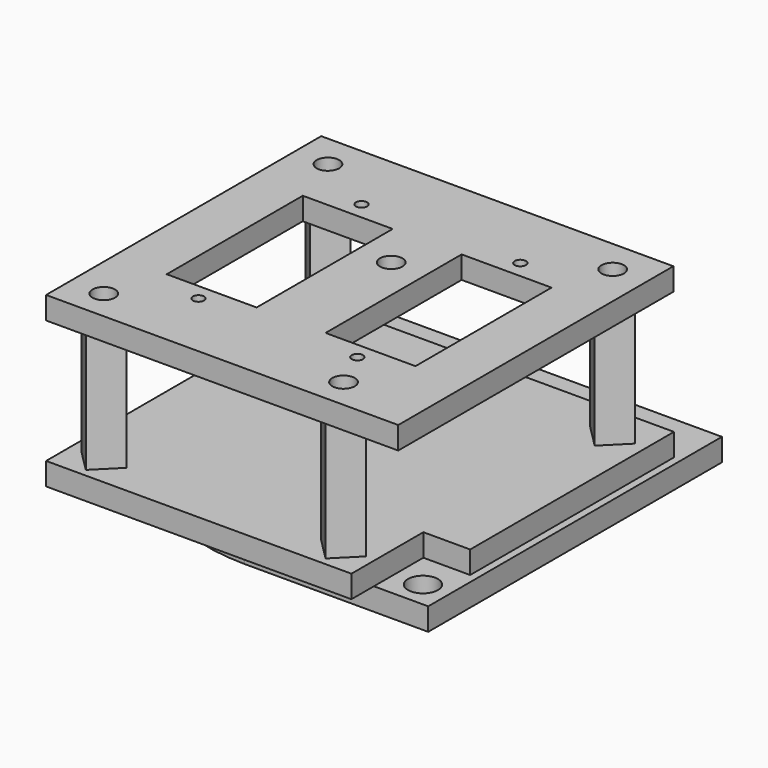
from build123d import *

# Parameters (mm, degrees)
CYLINDER003_R     = 1.5
CYLINDER003_DEPTH = 10
CYLINDER002_R     = 2
CYLINDER002_DEPTH = 10
CYLINDER001_R     = 2
CYLINDER001_DEPTH = 10
CYLINDER_R        = 24.5
CYLINDER_DEPTH    = 3
BOX001_W          = 24.5
BOX001_H          = 24.5
BOX001_DEPTH      = 3
BOX_W             = 49
BOX_H             = 49
BOX_DEPTH         = 3
CYLINDER013_R     = 1.5
CYLINDER013_DEPTH = 10
CYLINDER012_R     = 1.5
CYLINDER012_DEPTH = 10
CYLINDER008_R     = 0.75
CYLINDER008_DEPTH = 10
ARRAY006_X_COUNT  = 2
ARRAY006_X_PITCH  = 21.2
ARRAY006_Y_COUNT  = 2
ARRAY006_Y_PITCH  = 27.2
BOX004_W          = 12
BOX004_H          = 22.7
BOX004_DEPTH      = 10
ARRAY004_X_COUNT  = 2
ARRAY004_X_PITCH  = 21.2
CYLINDER006_R     = 1.5
CYLINDER006_DEPTH = 10
ARRAY005_Y_COUNT  = 2
ARRAY005_Y_PITCH  = 37.4
CYLINDER007_R     = 1.5
CYLINDER007_DEPTH = 10
BOX003_W          = 47
BOX003_H          = 45.9
BOX003_DEPTH      = 3
BOX006_W          = 7.25
BOX006_H          = 8.25
BOX006_DEPTH      = 3
CYLINDER011_R     = 1.5
CYLINDER011_DEPTH = 27
PRISM002_DEPTH    = 20
CYLINDER010_R     = 1.5
CYLINDER010_DEPTH = 27
BOX005_W          = 10
BOX005_H          = 11
BOX005_DEPTH      = 3
CYLINDER009_R     = 1.5
CYLINDER009_DEPTH = 27
PRISM001_DEPTH    = 20
CYLINDER005_R     = 1.5
CYLINDER005_DEPTH = 27
ARRAY002_Y_COUNT  = 2
ARRAY002_Y_PITCH  = 37.4
CYLINDER004_R     = 2.5
CYLINDER004_DEPTH = 10
PRISM_DEPTH       = 20
ARRAY003_Y_COUNT  = 2
ARRAY003_Y_PITCH  = 37.4
BOX002_W          = 47
BOX002_H          = 46
BOX002_DEPTH      = 3


with BuildPart() as cylinder003:
    # Cylinder003 → Cylinder003 (new body)
    with BuildSketch(Plane(origin=(24.5, 24.5, 0), x_dir=(1, 0, 0), z_dir=(0, 0, 1))):
        Circle(CYLINDER003_R)
    extrude(amount=CYLINDER003_DEPTH)


with BuildPart() as cylinder002:
    # Cylinder002 → Cylinder002 (new body)
    with BuildSketch(Plane(origin=(45.5, 3.5, 0), x_dir=(1, 0, 0), z_dir=(0, 0, 1))):
        Circle(CYLINDER002_R)
    extrude(amount=CYLINDER002_DEPTH)


with BuildPart() as cylinder001:
    # Cylinder001 → Cylinder001 (new body)
    with BuildSketch(Plane(origin=(3.5, 45.5, 0), x_dir=(1, 0, 0), z_dir=(0, 0, 1))):
        Circle(CYLINDER001_R)
    extrude(amount=CYLINDER001_DEPTH)


with BuildPart() as cilindro:
    # Cylinder → Cylinder (new body)
    with BuildSketch(Plane(origin=(24.5, 24.5, 0), x_dir=(1, 0, 0), z_dir=(0, 0, 1))):
        Circle(CYLINDER_R)
    extrude(amount=CYLINDER_DEPTH)


with BuildPart() as obj1:
    # Box001 → Box001 (new body)
    with BuildSketch(Plane.XY):
        with Locations((12.25, 12.25)):
            Rectangle(BOX001_W, BOX001_H)
    extrude(amount=BOX001_DEPTH)


with BuildPart() as temp_plate_final:
    # Box → Box (new body)
    with BuildSketch(Plane.XY):
        with Locations((24.5, 24.5)):
            Rectangle(BOX_W, BOX_H)
    extrude(amount=BOX_DEPTH)

    # Cut: cut obj1
    add(obj1.part, mode=Mode.SUBTRACT)

    # Fusion: union Cilindro
    add(cilindro.part)

    # Cut001: cut Cylinder001
    add(cylinder001.part, mode=Mode.SUBTRACT)

    # Cut002: cut Cylinder002
    add(cylinder002.part, mode=Mode.SUBTRACT)

    # Cut003: cut Cylinder003
    add(cylinder003.part, mode=Mode.SUBTRACT)


with BuildPart() as cylinder013:
    # Cylinder013 → Cylinder013 (new body)
    with BuildSketch(Plane(origin=(39.75, 2.5, 18.5), x_dir=(1, 0, 0), z_dir=(0, 0, 1))):
        Circle(CYLINDER013_R)
    extrude(amount=CYLINDER013_DEPTH)


with BuildPart() as cylinder012:
    # Cylinder012 → Cylinder012 (new body)
    with BuildSketch(Plane(origin=(45.75, 39.9, 19.5), x_dir=(1, 0, 0), z_dir=(0, 0, 1))):
        Circle(CYLINDER012_R)
    extrude(amount=CYLINDER012_DEPTH)


with BuildPart() as array006:
    # Cylinder008 → Cylinder008 (new body)
    with BuildSketch(Plane(origin=(16.15, 7.8, 19.5), x_dir=(1, 0, 0), z_dir=(0, 0, 1))):
        Circle(CYLINDER008_R)
    extrude(amount=CYLINDER008_DEPTH)

    # Array006 X: Array006 ×2


with BuildPart() as array006_1:
    add(array006.part)
    with Locations(*[(i * ARRAY006_X_PITCH, 0, 0) for i in range(1, ARRAY006_X_COUNT)]):
        add(array006.part)

    # Array006 Y: Array006 ×2


with BuildPart() as array006_2:
    add(array006_1.part)
    with Locations(*[(0, i * ARRAY006_Y_PITCH, 0) for i in range(1, ARRAY006_Y_COUNT)]):
        add(array006_1.part)


with BuildPart() as array_taladro_servomotor:
    # Box004 → Box004 (new body)
    with BuildSketch(Plane(origin=(10.15, 10, 19.5), x_dir=(1, 0, 0), z_dir=(0, 0, 1))):
        with Locations((6, 11.35)):
            Rectangle(BOX004_W, BOX004_H)
    extrude(amount=BOX004_DEPTH)

    # Array004 X: Array taladro servomotor ×2


with BuildPart() as array_taladro_servomotor_1:
    add(array_taladro_servomotor.part)
    with Locations(*[(i * ARRAY004_X_PITCH, 0, 0) for i in range(1, ARRAY004_X_COUNT)]):
        add(array_taladro_servomotor.part)


with BuildPart() as array005:
    # Cylinder006 → Cylinder006 (new body)
    with BuildSketch(Plane(origin=(7.75, 2.5, 19.5), x_dir=(1, 0, 0), z_dir=(0, 0, 1))):
        Circle(CYLINDER006_R)
    extrude(amount=CYLINDER006_DEPTH)

    # Array005 Y: Array005 ×2


with BuildPart() as array005_1:
    add(array005.part)
    with Locations(*[(0, i * ARRAY005_Y_PITCH, 0) for i in range(1, ARRAY005_Y_COUNT)]):
        add(array005.part)


with BuildPart() as fusion003:
    # Cylinder007 → Cylinder007 (new body)
    with BuildSketch(Plane(origin=(26.75, 26.7, 19.5), x_dir=(1, 0, 0), z_dir=(0, 0, 1))):
        Circle(CYLINDER007_R)
    extrude(amount=CYLINDER007_DEPTH)

    # Fusion003: union Array006, Array taladro servomotor, Array005
    add(array006_2.part)
    add(array_taladro_servomotor_1.part)
    add(array005_1.part)


with BuildPart() as base_final:
    # Box003 → Box003 (new body)
    with BuildSketch(Plane(origin=(3.25, -1.5, 22.5), x_dir=(1, 0, 0), z_dir=(0, 0, 1))):
        with Locations((23.5, 22.95)):
            Rectangle(BOX003_W, BOX003_H)
    extrude(amount=BOX003_DEPTH)

    # Cut005: cut Fusion003
    add(fusion003.part, mode=Mode.SUBTRACT)

    # Cut010: cut Cylinder012
    add(cylinder012.part, mode=Mode.SUBTRACT)

    # Cut011: cut Cylinder013
    add(cylinder013.part, mode=Mode.SUBTRACT)


with BuildPart() as base_final_1:
    # Cut011 placement: moved
    add(base_final.part.moved(Location((-2.25, -2.25, 0))))


with BuildPart() as obj2:
    # Box006 → Box006 (new body)
    with BuildSketch(Plane(origin=(41.75, 0, 3), x_dir=(1, 0, 0), z_dir=(0, 0, 1))):
        with Locations((3.625, 4.125)):
            Rectangle(BOX006_W, BOX006_H)
    extrude(amount=BOX006_DEPTH)


with BuildPart() as cylinder011:
    # Cylinder011 → Cylinder011 (new body)
    with BuildSketch(Plane(origin=(39.75, 2.5, 0), x_dir=(1, 0, 0), z_dir=(0, 0, 1))):
        Circle(CYLINDER011_R)
    extrude(amount=CYLINDER011_DEPTH)


with BuildPart() as cut009:
    # Prism002 → Prism002 (new body)
    with BuildSketch(Plane(origin=(39.75, 2.5, 3), x_dir=(1, 0, 0), z_dir=(0, 0, 1))):
        Polygon((3, 0), (0, 3), (-3, 0), (0, -3), align=None)
    extrude(amount=PRISM002_DEPTH)

    # Cut009: cut Cylinder011
    add(cylinder011.part, mode=Mode.SUBTRACT)


with BuildPart() as cylinder010:
    # Cylinder010 → Cylinder010 (new body)
    with BuildSketch(Plane(origin=(39.75, 2.5, 0), x_dir=(1, 0, 0), z_dir=(0, 0, 1))):
        Circle(CYLINDER010_R)
    extrude(amount=CYLINDER010_DEPTH)


with BuildPart() as obj1_placa:
    # Box005 → Box005 (new body)
    with BuildSketch(Plane(origin=(44, -2, 3), x_dir=(1, 0, 0), z_dir=(0, 0, 1))):
        with Locations((5, 5.5)):
            Rectangle(BOX005_W, BOX005_H)
    extrude(amount=BOX005_DEPTH)


with BuildPart() as cylinder009:
    # Cylinder009 → Cylinder009 (new body)
    with BuildSketch(Plane(origin=(45.75, 39.9, 0), x_dir=(1, 0, 0), z_dir=(0, 0, 1))):
        Circle(CYLINDER009_R)
    extrude(amount=CYLINDER009_DEPTH)


with BuildPart() as prism001:
    # Prism001 → Prism001 (new body)
    with BuildSketch(Plane(origin=(45.75, 39.9, 3), x_dir=(1, 0, 0), z_dir=(0, 0, 1))):
        Polygon((3, 0), (0, 3), (-3, 0), (0, -3), align=None)
    extrude(amount=PRISM001_DEPTH)


with BuildPart() as array002:
    # Cylinder005 → Cylinder005 (new body)
    with BuildSketch(Plane(origin=(7.75, 2.5, 0), x_dir=(1, 0, 0), z_dir=(0, 0, 1))):
        Circle(CYLINDER005_R)
    extrude(amount=CYLINDER005_DEPTH)

    # Array002 Y: Array002 ×2


with BuildPart() as array002_1:
    add(array002.part)
    with Locations(*[(0, i * ARRAY002_Y_PITCH, 0) for i in range(1, ARRAY002_Y_COUNT)]):
        add(array002.part)


with BuildPart() as fusion002:
    # Cylinder004 → Cylinder004 (new body)
    with BuildSketch(Plane(origin=(26.75, 26.75, 0), x_dir=(1, 0, 0), z_dir=(0, 0, 1))):
        Circle(CYLINDER004_R)
    extrude(amount=CYLINDER004_DEPTH)

    # Fusion002: union Array002
    add(array002_1.part)


with BuildPart() as obj3:
    # Prism → Prism (new body)
    with BuildSketch(Plane(origin=(7.75, 2.5, 3), x_dir=(1, 0, 0), z_dir=(0, 0, 1))):
        Polygon((3, 0), (0, 3), (-3, 0), (0, -3), align=None)
    extrude(amount=PRISM_DEPTH)

    # Array003 Y: obj3 ×2


with BuildPart() as obj3_1:
    add(obj3.part)
    with Locations(*[(0, i * ARRAY003_Y_PITCH, 0) for i in range(1, ARRAY003_Y_COUNT)]):
        add(obj3.part)


with BuildPart() as cut012:
    # Box002 → Box002 (new body)
    with BuildSketch(Plane(origin=(3.25, -1.5, 3), x_dir=(1, 0, 0), z_dir=(0, 0, 1))):
        with Locations((23.5, 23)):
            Rectangle(BOX002_W, BOX002_H)
    extrude(amount=BOX002_DEPTH)

    # Fusion001: union obj3
    add(obj3_1.part)

    # Cut004: cut Fusion002
    add(fusion002.part, mode=Mode.SUBTRACT)

    # Fusion004: union Prism001
    add(prism001.part)

    # Cut006: cut Cylinder009
    add(cylinder009.part, mode=Mode.SUBTRACT)

    # Cut007: cut obj1_placa
    add(obj1_placa.part, mode=Mode.SUBTRACT)

    # Cut008: cut Cylinder010
    add(cylinder010.part, mode=Mode.SUBTRACT)

    # Fusion005: union Cut009
    add(cut009.part)


with BuildPart() as cut012_1:
    # Fusion005 placement: moved
    add(cut012.part.moved(Location((-2.25, -2.25, 0))))

    # Cut012: cut obj2
    add(obj2.part, mode=Mode.SUBTRACT)


solid = Compound([temp_plate_final.part, base_final_1.part, cut012_1.part])
